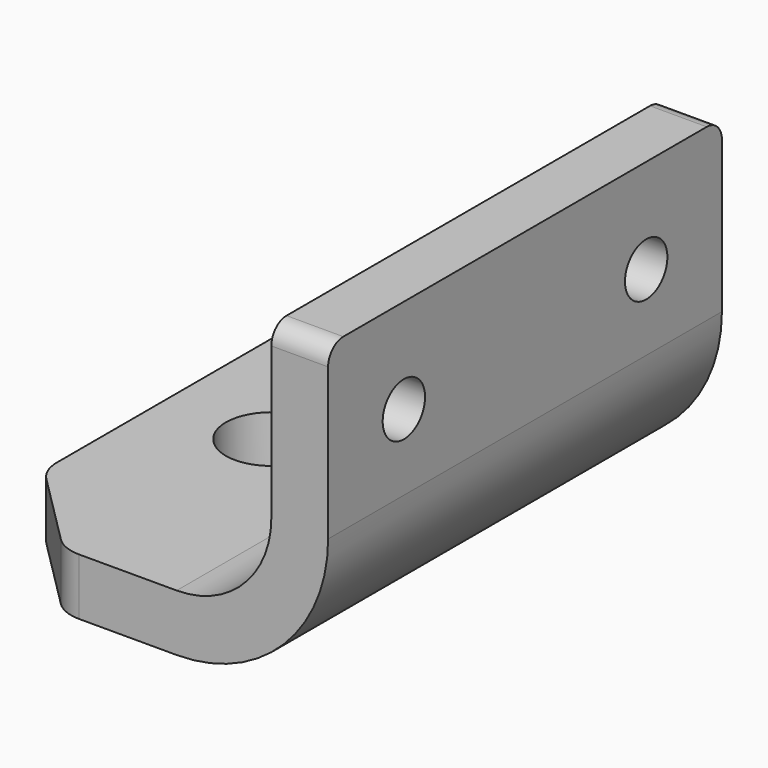
from build123d import *

# Parameters (mm, degrees)
F1_DEPTH = 130
F2_SIZE  = 25
F4_D     = 24
F6_D     = 14
F7_R     = 10
F8_R     = 5


with BuildPart() as f1:
    # F0 (on Front) → F1 (new body)
    with BuildSketch(Plane.XZ):
        with BuildLine():
            Line((15, 70), (0, 70))
            Line((0, 70), (0, 25))
            ThreePointArc((0, 25), (-7.3223304703, 7.3223304703), (-25, 0))
            Line((-25, 0), (-80, 0))
            Line((-80, 0), (-80, -15))
            Line((-80, -15), (-25, -15))
            ThreePointArc((-25, -15), (3.2842712475, -3.2842712475), (15, 25))
            Line((15, 25), (15, 70))
        make_face()
    extrude(amount=F1_DEPTH)

    # F2
    f2_edges = [f1.edges().sort_by_distance(p)[0] for p in [
        (-80, -130, -7.5),
        (-80, 0, -7.5),
    ]]
    chamfer(f2_edges, length=F2_SIZE)

    # F4 (through all)
    with Locations(Plane.XY):
        with Locations((-52, -65)):
            Hole(F4_D / 2)

    # F6 (through all)
    with Locations(Plane.YZ.offset(15)):
        with Locations((-105, 45), (-25, 45)):
            Hole(F6_D / 2)

    # F7
    f7_edges = [f1.edges().sort_by_distance(p)[0] for p in [
        (-55, 0, -7.5),
        (-80, -25, -7.5),
        (-80, -105, -7.5),
        (-55, -130, -7.5),
    ]]
    fillet(f7_edges, radius=F7_R)

    # F8
    f8_edges = [f1.edges().sort_by_distance(p)[0] for p in [
        (7.5, -130, 70),
        (7.5, 0, 70),
    ]]
    fillet(f8_edges, radius=F8_R)


solid = f1.part
